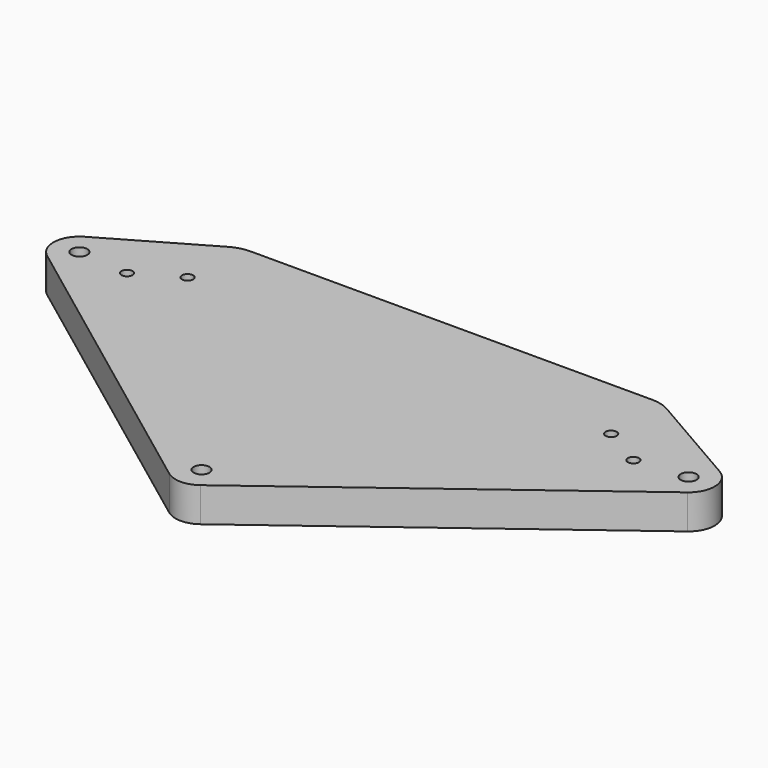
from build123d import *

# Parameters (mm, degrees)
SKETCH_R          = 4.25
PAD_DEPTH         = 18.5
SKETCH001_R       = 3
POCKET_DEPTH      = 799.519554
POCKET_DEPTH_BACK = 818.019554


with BuildPart() as part:
    # Sketch → Pad (new body)
    with BuildSketch(Plane.XY):
        with BuildLine():
            Line((-170.743902, 224.737113), (-117.916352, 255.237113))
            ThreePointArc((-107.916352, 257.916605), (-113.092733, 257.235122), (-117.916352, 255.237113))
            Line((-107.916352, 257.916605), (107.916352, 257.916605))
            ThreePointArc((117.916352, 255.237113), (113.092733, 257.235122), (107.916352, 257.916605))
            Line((117.916352, 255.237113), (170.743902, 224.737113))
            ThreePointArc((172.135351, 201.406349), (177.719069, 213.446238), (170.743902, 224.737113))
            Line((172.135351, 201.406349), (8.391449, 78.793592))
            ThreePointArc((-8.391449, 78.793592), (0, 76), (8.391449, 78.793592))
            Line((-8.391449, 78.793592), (-172.135351, 201.406349))
            ThreePointArc((-170.743902, 224.737113), (-177.719069, 213.446238), (-172.135351, 201.406349))
        make_face()
        with Locations((163.743902, 212.612757)):
            Circle(SKETCH_R, mode=Mode.SUBTRACT)
        with Locations((-163.743902, 212.612757)):
            Circle(SKETCH_R, mode=Mode.SUBTRACT)
        with Locations((0, 90)):
            Circle(SKETCH_R, mode=Mode.SUBTRACT)
    extrude(amount=PAD_DEPTH)

    # Sketch001 → Pocket (cut, two sides)
    with BuildSketch(Plane.XY) as pocket_sk:
        with Locations((113.858583, 222.938851)):
            Circle(SKETCH001_R)
        with Locations((136.141417, 210.073851)):
            Circle(SKETCH001_R)
    pocket = extrude(amount=-POCKET_DEPTH, mode=Mode.SUBTRACT) + extrude(pocket_sk.sketch, amount=POCKET_DEPTH_BACK, mode=Mode.SUBTRACT)

    # Mirrored: Pocket across Sketch001 V_Axis
    add(pocket.mirror(Plane(origin=(0, 0, 0), x_dir=(0, 0, 1), z_dir=(1, 0, 0))), mode=Mode.SUBTRACT)


solid = part.part
